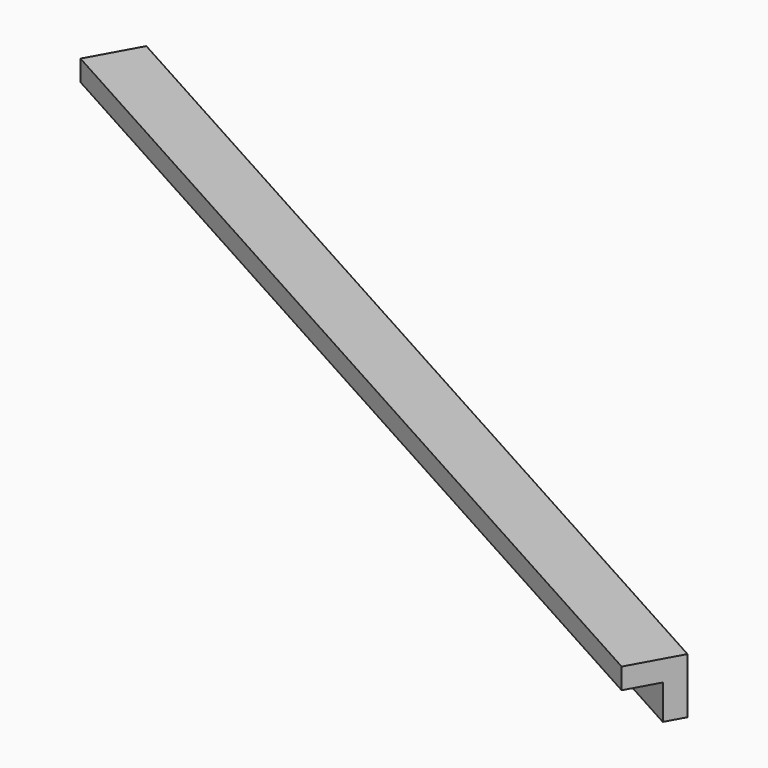
from build123d import *

# Parameters (mm, degrees)
BOX121_W               = 0.8
BOX121_H               = 16
BOX121_DEPTH           = 0.8
BOX122_W               = 0.8
BOX122_H               = 16
BOX122_DEPTH           = 0.8
CUT064_PLACEMENT_ANGLE = 61


with BuildPart() as cubo121:
    # Box121 → Box121 (new body)
    with BuildSketch(Plane.XY):
        with Locations((0.4, 8)):
            Rectangle(BOX121_W, BOX121_H)
    extrude(amount=BOX121_DEPTH)


with BuildPart() as obj1:
    # Box122 → Box122 (new body)
    with BuildSketch(Plane(origin=(0.3, 0, 0.3), x_dir=(1, 0, 0), z_dir=(0, 0, 1))):
        with Locations((0.4, 8)):
            Rectangle(BOX122_W, BOX122_H)
    extrude(amount=BOX122_DEPTH)

    # Cut064: cut Cubo121
    add(cubo121.part, mode=Mode.SUBTRACT)


with BuildPart() as obj1_1:
    # Cut064 placement: moved
    add(obj1.part.moved(Location((-191.4, 105.3, -1.45))).rotate(Axis((-191.4, 105.3, -1.45), (0, 0, 1)), CUT064_PLACEMENT_ANGLE))


solid = obj1_1.part
